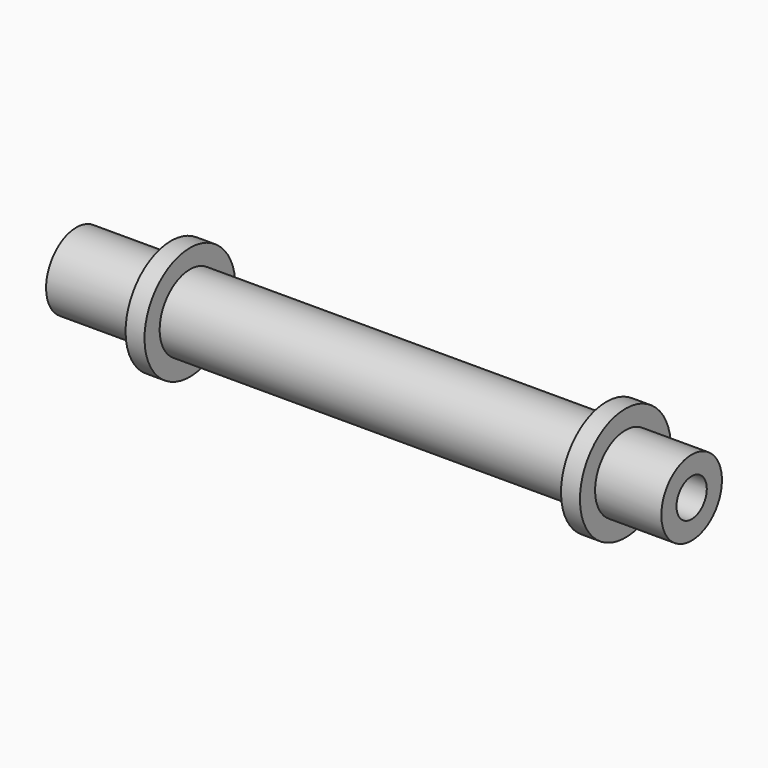
from build123d import *


with BuildPart() as f1:
    # F0 (on Front) → F1 (revolve)
    with BuildSketch(Plane.XZ):
        Polygon((-15, 2), (-15, 1), (-10, 1), (-10, 0), (14, 0), (14, 1), (17.5, 1), (17.5, 2), (14, 2), (14, 3), (13, 3), (13, 2), (0, 2), (-9, 2), (-9, 3), (-10, 3), (-10, 2), align=None)
    revolve(axis=Axis((2, 0, 0), (-1, 0, 0)))


solid = f1.part
